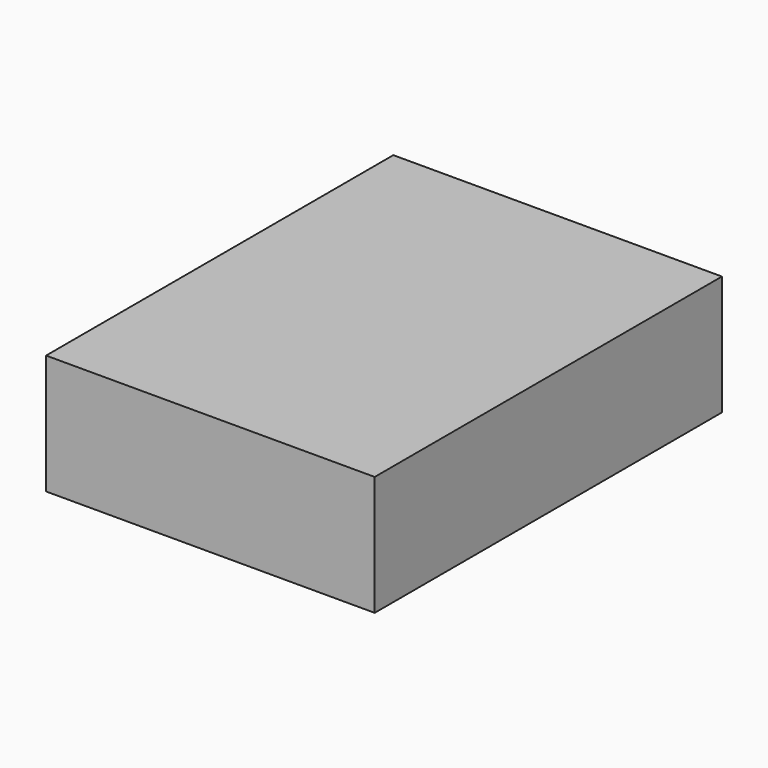
from build123d import *

# Parameters (mm, degrees)
F0_W     = 265
F0_H     = 95
F1_DEPTH = 350
F2_T     = -1.5
F3_W     = 265
F3_H     = 350
F4_DEPTH = 1.5


with BuildPart() as f1:
    # F0 (on Front) → F1 (new body)
    with BuildSketch(Plane.XZ):
        with Locations((132.5, 47.5)):
            Rectangle(F0_W, F0_H)
    extrude(amount=-F1_DEPTH)

    # F2
    f2_openings = [f1.faces().sort_by_distance(p)[0] for p in [
        (132.5, 175, 95),
    ]]
    offset(amount=F2_T, openings=f2_openings)

    # F3 (on face) → F4 (join)
    with BuildSketch(Plane.XY.offset(95)):
        with Locations((132.5, 175)):
            Rectangle(F3_W, F3_H)
    extrude(amount=F4_DEPTH)


solid = f1.part
